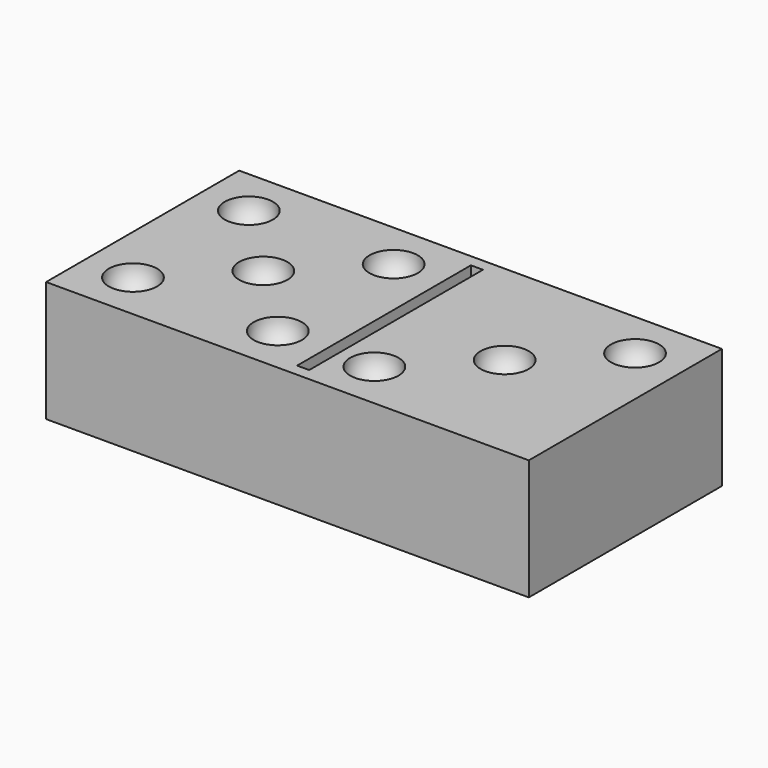
from build123d import *

# Parameters (mm, degrees)
BOX001_W     = 1
BOX001_H     = 18
BOX001_DEPTH = 1
BOX_W        = 40
BOX_H        = 20
BOX_DEPTH    = 10


with BuildPart() as sphere002:
    # Sphere002 → Sphere002 (revolve)
    with BuildSketch(Plane(origin=(4, 4, 10), x_dir=(1, 0, 0), z_dir=(0, -1, 0))):
        with BuildLine():
            ThreePointArc((0, -2), (2, 0), (0, 2))
            Line((0, 2), (0, -2))
        make_face()
    revolve(axis=Axis((4, 4, 10), (0, 0, 1)))


with BuildPart() as fusion001:
    # Sphere003 → Sphere003 (revolve)
    with BuildSketch(Plane(origin=(4, 16, 10), x_dir=(1, 0, 0), z_dir=(0, -1, 0))):
        with BuildLine():
            ThreePointArc((0, -2), (2, 0), (0, 2))
            Line((0, 2), (0, -2))
        make_face()
    revolve(axis=Axis((4, 16, 10), (0, 0, 1)))

    # Fusion001: union Sphere002
    add(sphere002.part)


with BuildPart() as fusion001_1:
    # Fusion001 placement: moved
    add(fusion001.part.moved(Location((12, 0, 0))))


with BuildPart() as sphere004:
    # Sphere004 → Sphere004 (revolve)
    with BuildSketch(Plane(origin=(10, 10, 10), x_dir=(1, 0, 0), z_dir=(0, -1, 0))):
        with BuildLine():
            ThreePointArc((0, -2), (2, 0), (0, 2))
            Line((0, 2), (0, -2))
        make_face()
    revolve(axis=Axis((10, 10, 10), (0, 0, 1)))


with BuildPart() as sphere005:
    # Sphere005 → Sphere005 (revolve)
    with BuildSketch(Plane(origin=(24, 4, 10), x_dir=(1, 0, 0), z_dir=(0, -1, 0))):
        with BuildLine():
            ThreePointArc((0, -2), (2, 0), (0, 2))
            Line((0, 2), (0, -2))
        make_face()
    revolve(axis=Axis((24, 4, 10), (0, 0, 1)))


with BuildPart() as sphere007:
    # Sphere007 → Sphere007 (revolve)
    with BuildSketch(Plane(origin=(4, 16, 10), x_dir=(1, 0, 0), z_dir=(0, -1, 0))):
        with BuildLine():
            ThreePointArc((0, -2), (2, 0), (0, 2))
            Line((0, 2), (0, -2))
        make_face()
    revolve(axis=Axis((4, 16, 10), (0, 0, 1)))


with BuildPart() as sphere008:
    # Sphere008 → Sphere008 (revolve)
    with BuildSketch(Plane(origin=(36, 16, 10), x_dir=(1, 0, 0), z_dir=(0, -1, 0))):
        with BuildLine():
            ThreePointArc((0, -2), (2, 0), (0, 2))
            Line((0, 2), (0, -2))
        make_face()
    revolve(axis=Axis((36, 16, 10), (0, 0, 1)))


with BuildPart() as sphere009:
    # Sphere009 → Sphere009 (revolve)
    with BuildSketch(Plane(origin=(30, 10, 10), x_dir=(1, 0, 0), z_dir=(0, -1, 0))):
        with BuildLine():
            ThreePointArc((0, -2), (2, 0), (0, 2))
            Line((0, 2), (0, -2))
        make_face()
    revolve(axis=Axis((30, 10, 10), (0, 0, 1)))


with BuildPart() as sphere:
    # Sphere → Sphere (revolve)
    with BuildSketch(Plane(origin=(4, 4, 10), x_dir=(1, 0, 0), z_dir=(0, -1, 0))):
        with BuildLine():
            ThreePointArc((0, -2), (2, 0), (0, 2))
            Line((0, 2), (0, -2))
        make_face()
    revolve(axis=Axis((4, 4, 10), (0, 0, 1)))


with BuildPart() as fusion002:
    # Sphere001 → Sphere001 (revolve)
    with BuildSketch(Plane(origin=(4, 16, 10), x_dir=(1, 0, 0), z_dir=(0, -1, 0))):
        with BuildLine():
            ThreePointArc((0, -2), (2, 0), (0, 2))
            Line((0, 2), (0, -2))
        make_face()
    revolve(axis=Axis((4, 16, 10), (0, 0, 1)))

    # Fusion: union Sphere
    add(sphere.part)

    # Fusion002: union Fusion001, Sphere004, Sphere005, Sphere007, Sphere008, Sphere009
    add(fusion001_1.part)
    add(sphere004.part)
    add(sphere005.part)
    add(sphere007.part)
    add(sphere008.part)
    add(sphere009.part)


with BuildPart() as cube001:
    # Box001 → Box001 (new body)
    with BuildSketch(Plane(origin=(20, 1, 9), x_dir=(1, 0, 0), z_dir=(0, 0, 1))):
        with Locations((0.5, 9)):
            Rectangle(BOX001_W, BOX001_H)
    extrude(amount=BOX001_DEPTH)


with BuildPart() as cut001:
    # Box → Box (new body)
    with BuildSketch(Plane.XY):
        with Locations((20, 10)):
            Rectangle(BOX_W, BOX_H)
    extrude(amount=BOX_DEPTH)

    # Cut: cut Cube001
    add(cube001.part, mode=Mode.SUBTRACT)

    # Cut001: cut Fusion002
    add(fusion002.part, mode=Mode.SUBTRACT)


solid = cut001.part
